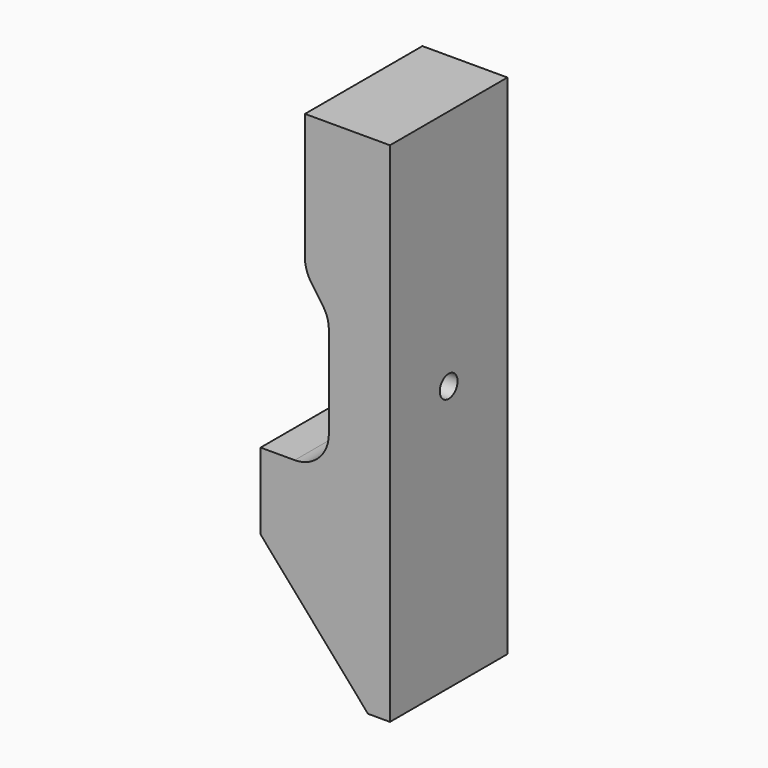
from build123d import *

# Parameters (mm, degrees)
F1_DEPTH = 21.5
F2_R     = 3.25
F3_DEPTH = 17.901
F4_R     = 10


with BuildPart() as f1:
    # F0 (on Front) → F1 (new body, symmetric)
    with BuildSketch(Plane.XZ):
        Polygon((0, -19.4), (-20, -19.4), (-20, -41.812051613), (11.4499329693, -77.827301579), (17.9, -77.827301579), (17.9, 70.8765028308), (-7, 70.8765028308), (-7, 30.6), (0, 20.6), align=None)
    extrude(amount=F1_DEPTH, both=True)

    # F2 (on Right) → F3 (cut, through all)
    with BuildSketch(Plane.YZ):
        Circle(F2_R)
    extrude(amount=F3_DEPTH, mode=Mode.SUBTRACT)

    # F4
    f4_edges = [f1.edges().sort_by_distance(p)[0] for p in [
        (0, 0, -19.4),
        (0, 0, 20.6),
        (-7, 0, 30.6),
    ]]
    fillet(f4_edges, radius=F4_R)


solid = f1.part
